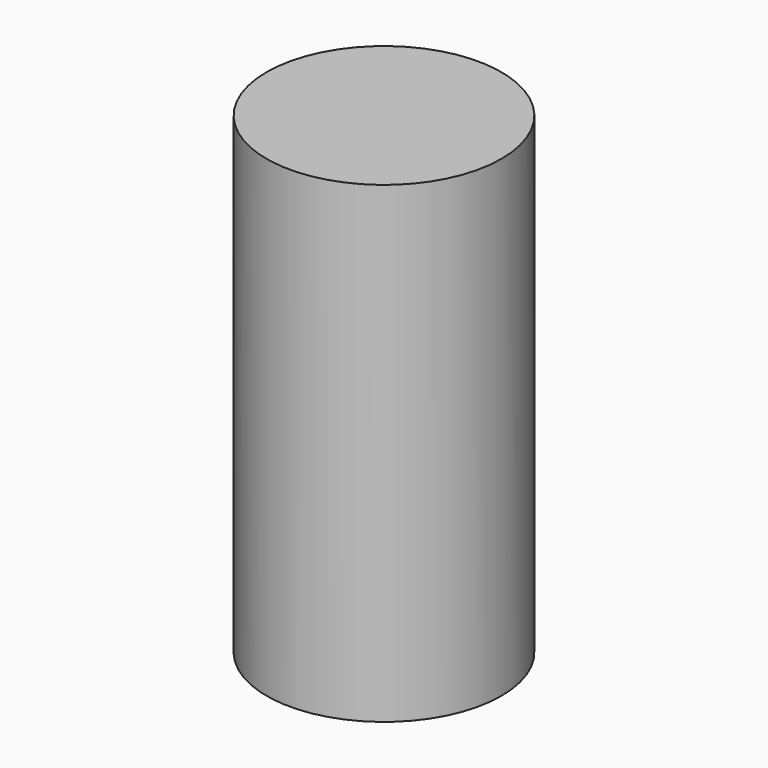
from build123d import *

# Parameters (mm, degrees)
F0_R      = 33.753123
F1_DEPTH  = 27.178
F1_FACE_R = 33.753123
F2_DEPTH  = 135.89


with BuildPart() as f1:
    # F0 (on Top) → F1 (new body)
    with BuildSketch(Plane.XY):
        with Locations((-2.590252, 0)):
            Circle(F0_R)
    extrude(amount=F1_DEPTH)

    # F1_face (on face) → F2 (join)
    with BuildSketch(Plane(origin=(-2.590252, 0, 27.178), x_dir=(1, 0, 0), z_dir=(0, 0, 1))):
        Circle(F1_FACE_R)
    extrude(amount=-F2_DEPTH)


solid = f1.part
